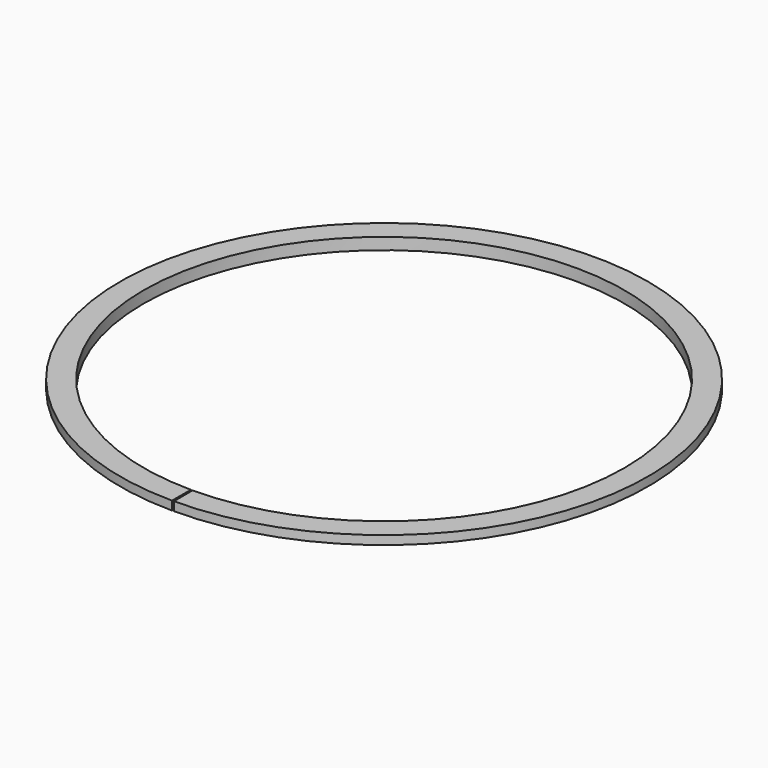
from build123d import *

# Parameters (mm, degrees)
F1_ANGLE_BACK = 179.8
F1_ANGLE      = 359.6


with BuildPart() as f1:
    # F0 (on Right) → F1 (revolve)
    with BuildSketch(Plane.YZ, mode=Mode.PRIVATE) as f1_sk:
        with BuildLine():
            Line((45, 2), (41, 2))
            Line((41, 2), (41, 0))
            Line((41, 0), (44, 0))
            Line((44, 0), (44, 0.6))
            ThreePointArc((44, 0.6), (44.0375304952, 0.6780868809), (44.1219512195, 0.6975609756))
            Line((44.1219512195, 0.6975609756), (45, 0.5))
            Line((45, 0.5), (45, 2))
        make_face()
    revolve(f1_sk.sketch.rotate(Axis((0, 0, 10), (0, 0, 1)), -F1_ANGLE_BACK), axis=Axis((0, 0, 10), (0, 0, 1)), revolution_arc=F1_ANGLE)


solid = f1.part
